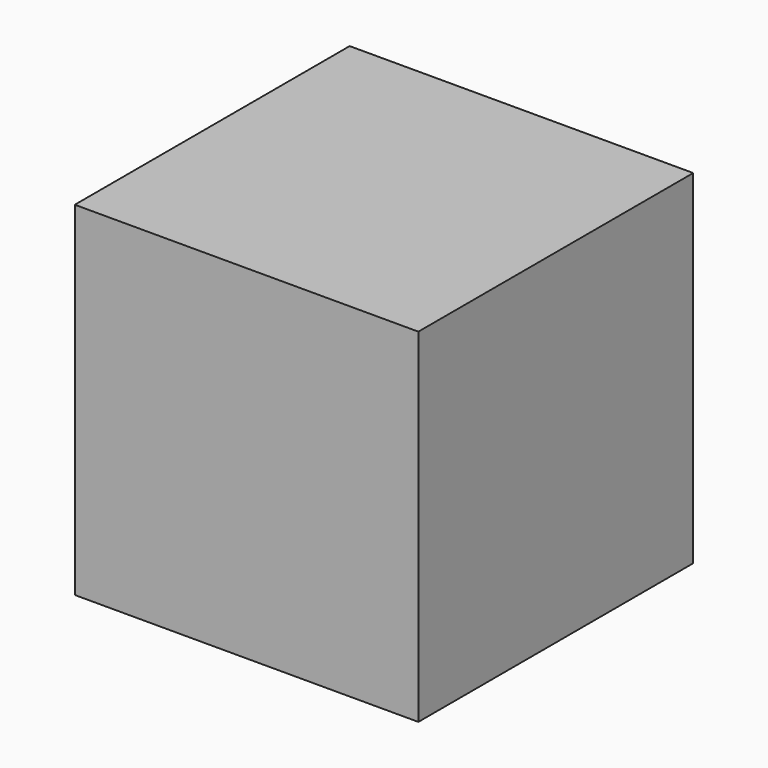
from build123d import *

# Parameters (mm, degrees)
F0_W     = 110
F0_H     = 110
F1_DEPTH = 110


with BuildPart() as f1:
    # F0 (on Front) → F1 (new body)
    with BuildSketch(Plane.XZ):
        Rectangle(F0_W, F0_H)
        Rectangle(F0_W, F0_H)
    extrude(amount=F1_DEPTH)


solid = f1.part
